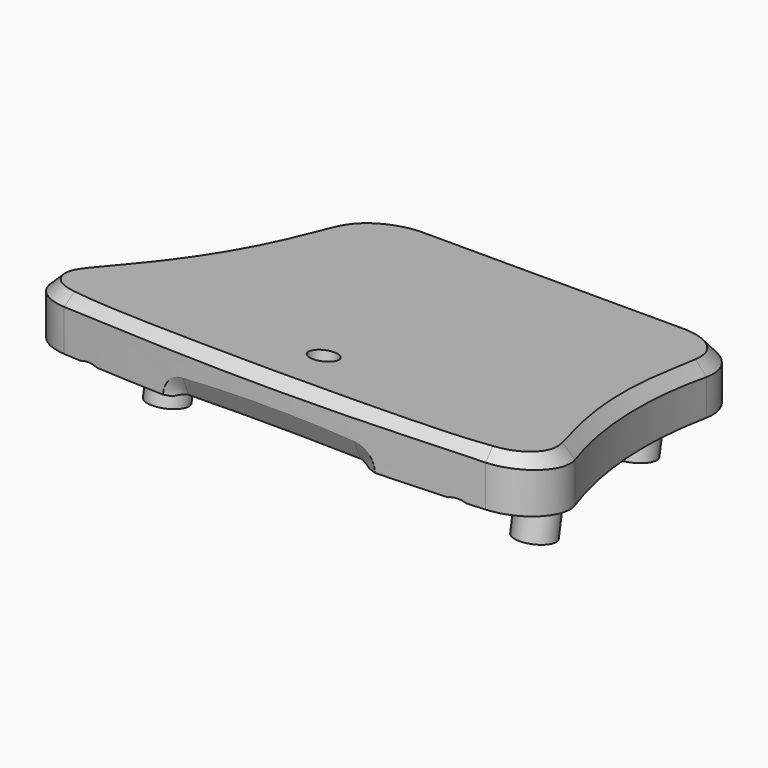
from build123d import *

# Parameters (mm, degrees)
PAD012_DEPTH         = 22
POCKET009_DEPTH      = 33.001
POCKET009_DEPTH_BACK = 33.001
SKETCH067_W          = 2.5
SKETCH067_H          = 10
SKETCH068_W          = 2.7
SKETCH068_H          = 10
PAD009_DEPTH         = 22
POCKET011_DEPTH      = 33.001
POCKET011_DEPTH_BACK = 33.001
CHAMFER_SIZE         = 1.5
POCKET_DEPTH         = 6
POCKET016_DEPTH      = 5
POCKET012_DEPTH      = 17.5
POCKET001_DEPTH      = 4
POCKET002_DEPTH      = 12.5
POCKET010_DEPTH      = 7.0010001
POCKET013_DEPTH      = 12.5
SKETCH072_R          = 1.75
POCKET018_DEPTH      = 2.5
PAD015_DEPTH         = 2
POCKET019_DEPTH      = 5


with BuildPart() as separation_top:
    # Sketch034 → Pad012 (new body)
    with BuildSketch(Plane.XY):
        with BuildLine():
            ThreePointArc((-17, 22), (-22.547830033, 19.763816611), (-24.9941687248, 14.3053954813))
            ThreePointArc((-32.4373853004, -16.4633011422), (-27.1786787498, -1.4507903316), (-24.9941687248, 14.3053954813))
            ThreePointArc((-32.4373853004, -16.4633011422), (-32.2034596214, -21.9873078128), (-27.5510204082, -24.9746444672))
            ThreePointArc((-27.5510204082, -24.9746444672), (0, -26.2424211058), (27.5510204082, -24.9746444672))
            ThreePointArc((27.5510204082, -24.9746444672), (32.2034596214, -21.9873078128), (32.4373853004, -16.4633011422))
            ThreePointArc((24.9941687248, 14.3053954813), (27.1786787499, -1.4507903316), (32.4373853004, -16.4633011422))
            ThreePointArc((24.9941687248, 14.3053954813), (22.547830033, 19.763816611), (17, 22))
            Line((-17, 22), (17, 22))
        make_face()
    extrude(amount=PAD012_DEPTH)

    # Sketch035 → Pocket009 (cut, two sides)
    with BuildSketch(Plane.YZ) as pocket009_sk:
        Polygon((-26.2424211058, 0), (-26.2424211058, 12.927471751), (22, 5.285738189), (22, 0), align=None)
    extrude(amount=-POCKET009_DEPTH, mode=Mode.SUBTRACT)
    extrude(pocket009_sk.sketch, amount=POCKET009_DEPTH_BACK, mode=Mode.SUBTRACT)

    # SubtractivePipe001: sweep along a path in Sketch045
    with BuildLine(Plane(origin=(-5.8334627974, 16.4625576489, 6.4160014438), x_dir=(1, 0, 0), z_dir=(0, -0.1564521345, -0.9876855419))) as subtractivepipe001_path:
        ThreePointArc((-21.6903983536, 40.0135271244), (-24.4272098882, 38.2505630707), (-24.5284614888, 34.9966534616))
        ThreePointArc((-24.5284614888, 34.9966534616), (-18.6113975596, 18.6316827307), (-16.2585987673, 1.3896338266))
        ThreePointArc((-16.2585987673, 1.3896338266), (-14.8660514943, -1.7695873445), (-11.6665372026, -3.0668824584))
        Line((-11.6665372026, -3.0668824584), (23.3334627974, -3.0668824584))
        ThreePointArc((23.3334627974, -3.0668824584), (26.6346081412, -1.6678189582), (27.9251359699, 1.6772486318))
        ThreePointArc((27.9251359699, 1.6772486318), (29.1452471215, 18.7578168303), (33.8652541538, 35.2185584545))
        ThreePointArc((33.8652541538, 35.2185584545), (33.603852801, 38.3551908191), (30.9286492654, 40.0135271244))
        ThreePointArc((30.9286492654, 40.0135271244), (4.6191254559, 41.1791569327), (-21.6903983536, 40.0135271244))
    # Sketch044 → SubtractivePipe001 (sweep, cut)
    with BuildSketch(Plane.YZ):
        with BuildLine():
            Line((17.9324136248, 5.930055174), (18.9176323332, 6.7864617876))
            ThreePointArc((20.3003920919, 6.5674287993), (19.6600805925, 6.9993410259), (18.9176323332, 6.7864617876))
            Line((20.3003920919, 6.5674287993), (20.9727065313, 5.4484643291))
            Line((20.9727065313, 5.4484643291), (17.9324136248, 5.930055174))
        make_face()
    sweep(path=subtractivepipe001_path.line, mode=Mode.SUBTRACT)

    # Sketch067 (on Binder) → Revolution004 (revolve)
    with BuildSketch(Plane(origin=(0, -12.7790121068, 2.2532846212), x_dir=(-1, 0, 0), z_dir=(0, 0.984807753, -0.1736481777))):
        with Locations((-22.75, 6.2273814433)):
            Rectangle(SKETCH067_W, SKETCH067_H)
    revolution004 = revolve(axis=Axis((24, -10.8293977792, 13.3100969127), (0, 0.1736481777, 0.984807753)))

    # Sketch068 (on Binder) → Revolution005 (revolve)
    with BuildSketch(Plane(origin=(0, 7.1028372563, -1.2524218479), x_dir=(-1, 0, 0), z_dir=(0, 0.984807753, -0.1736481777))):
        with Locations((-19.15, 9.7871690855)):
            Rectangle(SKETCH068_W, SKETCH068_H)
    revolution005 = revolve(axis=Axis((20.5, 9.6706022208, 13.3100969127), (0, 0.1736481777, 0.984807753)))

    # Sketch069 (on Binder) → Groove003 (revolve, cut)
    with BuildSketch(Plane(origin=(0, -12.7790121068, 2.2532846212), x_dir=(-1, 0, 0), z_dir=(0, 0.984807753, -0.1736481777))):
        Polygon((-24, 11.2273814433), (-23.5394098609, 11.2273814433), (-22.7174920527, 1.2273814433), (-24, 1.2273814433), align=None)
    groove003 = revolve(axis=Axis((24, -10.8293977792, 13.3100969127), (0, 0.1736481777, 0.984807753)), mode=Mode.SUBTRACT)

    # Sketch070 (on Binder) → Groove004 (revolve, cut)
    with BuildSketch(Plane(origin=(0, 7.1028372563, -1.2524218479), x_dir=(-1, 0, 0), z_dir=(0, 0.984807753, -0.1736481777))):
        Polygon((-19.2174920527, 4.7871690855), (-20.5, 4.7871690855), (-20.5, 14.7871690855), (-20.0394098609, 14.7871690855), align=None)
    groove004 = revolve(axis=Axis((20.5, 9.6706022208, 13.3100969127), (0, 0.1736481777, 0.984807753)), mode=Mode.SUBTRACT)

    # Mirrored005: Revolution004, Revolution005, Groove003, Groove004 across YZ
    add(revolution004.mirror(Plane.YZ))
    add(revolution005.mirror(Plane.YZ))
    add(groove003.mirror(Plane.YZ), mode=Mode.SUBTRACT)
    add(groove004.mirror(Plane.YZ), mode=Mode.SUBTRACT)


with BuildPart() as top_housing:
    # Sketch016 → Pad009 (new body)
    with BuildSketch(Plane.XY):
        with BuildLine():
            ThreePointArc((24.9941687248, 14.3053954813), (22.547830033, 19.763816611), (17, 22))
            Line((-17, 22), (17, 22))
            ThreePointArc((-17, 22), (-22.547830033, 19.763816611), (-24.9941687248, 14.3053954813))
            ThreePointArc((-32.4373853004, -16.4633011422), (-27.1786787498, -1.4507903316), (-24.9941687248, 14.3053954813))
            ThreePointArc((-32.4373853004, -16.4633011422), (-32.2034596214, -21.9873078128), (-27.5510204082, -24.9746444672))
            ThreePointArc((-27.5510204082, -24.9746444672), (0, -26.2424211058), (27.5510204082, -24.9746444672))
            ThreePointArc((27.5510204082, -24.9746444672), (32.2034596214, -21.9873078128), (32.4373853004, -16.4633011422))
            ThreePointArc((24.9941687248, 14.3053954813), (27.1786787498, -1.4507903316), (32.4373853004, -16.4633011422))
        make_face()
    extrude(amount=PAD009_DEPTH)

    # Sketch048 → Pocket011 (cut, two sides)
    with BuildSketch(Plane.YZ) as pocket011_sk:
        Polygon((-26.2424211058, 22), (-26.2424211058, 19.8586460584), (22, 11.3522056027), (22, 22), align=None)
    extrude(amount=-POCKET011_DEPTH, mode=Mode.SUBTRACT)
    extrude(pocket011_sk.sketch, amount=POCKET011_DEPTH_BACK, mode=Mode.SUBTRACT)

    # Chamfer
    chamfer_edges = [top_housing.edges().sort_by_distance(p)[0] for p in [
        (22.569002, 19.743363, 11.750112),
        (22.54783, 19.763817, 0),
    ]]
    chamfer(chamfer_edges, length=CHAMFER_SIZE)

    # Sketch017 → Pocket (cut)
    with BuildSketch(Plane.XY.offset(2.5)):
        with BuildLine():
            Line((-15.5, 20), (15.5, 20))
            ThreePointArc((16, 19.5), (15.8535533906, 19.8535533906), (15.5, 20))
            Line((16, 19.5), (16, -17.3786796564))
            ThreePointArc((15.8535533906, -17.732233047), (15.9619397663, -17.5700213726), (16, -17.3786796564))
            Line((15.8535533906, -17.732233047), (13.732233047, -19.8535533906))
            ThreePointArc((13.3786796564, -20), (13.5700213726, -19.9619397663), (13.732233047, -19.8535533906))
            Line((13.3786796564, -20), (-13.3786796564, -20))
            ThreePointArc((-13.732233047, -19.8535533906), (-13.5700213726, -19.9619397663), (-13.3786796564, -20))
            Line((-15.8535533906, -17.732233047), (-13.732233047, -19.8535533906))
            ThreePointArc((-16, -17.3786796564), (-15.9619397663, -17.5700213726), (-15.8535533906, -17.732233047))
            Line((-16, -17.3786796564), (-16, 19.5))
            ThreePointArc((-15.5, 20), (-15.8535533906, 19.8535533906), (-16, 19.5))
        make_face()
    extrude(amount=POCKET_DEPTH, mode=Mode.SUBTRACT)

    # Sketch061 (on Binder) → Pocket016 (cut)
    with BuildSketch(Plane(origin=(0, 1.2969820702, 7.3555508352), x_dir=(-1, 0, 0), z_dir=(0, -0.1736481777, -0.984807753))):
        with BuildLine():
            Line((17, 15.8179414824), (-17, 15.8179414824))
            ThreePointArc((-17, 15.8179414824), (-17.2121320344, 15.7300735167), (-17.3, 15.5179414824))
            Line((-17.3, 7.2124099699), (-17.3, 15.5179414824))
            ThreePointArc((-19.4759076456, 4.1807050289), (-17.9002792906, 5.3465449606), (-17.3, 7.2124099699))
            ThreePointArc((-19.4759076456, 4.1807050289), (-19.6236228038, 4.0714075353), (-19.6798989873, 3.8964826907))
            Line((-19.6798989873, 3.8964826907), (-19.6798989873, -15.0820585176))
            ThreePointArc((-19.6798989873, -15.0820585176), (-19.5920310217, -15.294190552), (-19.3798989873, -15.3820585176))
            Line((-19.3798989873, -15.3820585176), (19.3798989873, -15.3820585176))
            ThreePointArc((19.3798989873, -15.3820585176), (19.5920310217, -15.294190552), (19.6798989873, -15.0820585176))
            Line((19.6798989873, -15.0820585176), (19.6798989873, 3.8964826907))
            ThreePointArc((19.6798989873, 3.8964826907), (19.6236228038, 4.0714075353), (19.4759076456, 4.1807050289))
            ThreePointArc((17.3, 7.2124099699), (17.9002792906, 5.3465449606), (19.4759076456, 4.1807050289))
            Line((17.3, 7.2124099699), (17.3, 15.5179414824))
            ThreePointArc((17.3, 15.5179414824), (17.2121320344, 15.7300735167), (17, 15.8179414824))
        make_face()
    extrude(amount=-POCKET016_DEPTH, mode=Mode.SUBTRACT)

    # Sketch050 → Pocket012 (cut, symmetric)
    with BuildSketch(Plane.YZ):
        Polygon((-15.1888639059, 6), (17.3047876744, 6), (18.1879985355, 11.0089376995), (-13.3258495609, 16.5656793848), align=None)
    extrude(amount=POCKET012_DEPTH, both=True, mode=Mode.SUBTRACT)

    # Sketch052 (on DatumPlane) → AdditiveLoft section 0
    with BuildSketch(Plane(origin=(5.8333333333, 7.6833825034, 12.8611849279), x_dir=(-1, 0, 0), z_dir=(0, 0.1736481777, 0.984807753))):
        with BuildLine():
            ThreePointArc((5.0833333333, 1.115391851), (5.8333333333, 0.365391851), (6.5833333333, 1.115391851))
            Line((6.5833333333, 1.115391851), (6.5833333333, 4.365391851))
            Line((6.5833333333, 4.365391851), (9.8333333333, 4.365391851))
            ThreePointArc((9.8333333333, 4.365391851), (10.5833333333, 5.115391851), (9.8333333333, 5.865391851))
            Line((9.8333333333, 5.865391851), (6.5833333333, 5.865391851))
            Line((6.5833333333, 5.865391851), (6.5833333333, 9.115391851))
            ThreePointArc((6.5833333333, 9.115391851), (5.8333333333, 9.865391851), (5.0833333333, 9.115391851))
            Line((5.0833333333, 9.115391851), (5.0833333333, 5.865391851))
            Line((5.0833333333, 5.865391851), (1.8333333333, 5.865391851))
            ThreePointArc((1.8333333333, 5.865391851), (1.0833333333, 5.115391851), (1.8333333333, 4.365391851))
            Line((1.8333333333, 4.365391851), (5.0833333333, 4.365391851))
            Line((5.0833333333, 4.365391851), (5.0833333333, 1.115391851))
        make_face()
    # Sketch053 (on DatumPlane) → AdditiveLoft section 1
    with BuildSketch(Plane(origin=(5.8333333333, 7.3360861481, 10.8915694219), x_dir=(-1, 0, 0), z_dir=(0, 0.1736481777, 0.984807753))):
        with BuildLine():
            ThreePointArc((1.8333333333, 5.515391851), (1.4333333333, 5.115391851), (1.8333333333, 4.715391851))
            Line((1.8333333333, 4.715391851), (5.4333333333, 4.715391851))
            Line((5.4333333333, 4.715391851), (5.4333333333, 1.115391851))
            ThreePointArc((5.4333333333, 1.115391851), (5.8333333333, 0.715391851), (6.2333333333, 1.115391851))
            Line((6.2333333333, 1.115391851), (6.2333333333, 4.715391851))
            Line((6.2333333333, 4.715391851), (9.8333333333, 4.715391851))
            ThreePointArc((9.8333333333, 4.715391851), (10.2333333333, 5.115391851), (9.8333333333, 5.515391851))
            Line((9.8333333333, 5.515391851), (6.2333333333, 5.515391851))
            Line((6.2333333333, 5.515391851), (6.2333333333, 9.115391851))
            ThreePointArc((6.2333333333, 9.115391851), (5.8333333333, 9.515391851), (5.4333333333, 9.115391851))
            Line((5.4333333333, 9.115391851), (5.4333333333, 5.515391851))
            Line((5.4333333333, 5.515391851), (1.8333333333, 5.515391851))
        make_face()
    loft()

    # Sketch018 → Pocket001 (cut)
    with BuildSketch(Plane.XZ.offset(20.5)):
        with BuildLine():
            Line((-23.75, 6.3915608176), (-21, 7.9792740578))
            ThreePointArc((-21, 7.9792740578), (-20.8169872981, 8.1622867597), (-20.75, 8.4122867597))
            Line((-20.75, 8.4122867597), (-20.75, 11.5877132403))
            ThreePointArc((-20.75, 11.5877132403), (-20.8169872981, 11.8377132403), (-21, 12.0207259422))
            Line((-23.75, 13.6084391824), (-21, 12.0207259422))
            ThreePointArc((-23.75, 13.6084391824), (-24, 13.6754264805), (-24.25, 13.6084391824))
            Line((-27, 12.0207259422), (-24.25, 13.6084391824))
            ThreePointArc((-27, 12.0207259422), (-27.1830127019, 11.8377132403), (-27.25, 11.5877132403))
            Line((-27.25, 11.5877132403), (-27.25, 8.4122867597))
            ThreePointArc((-27.25, 8.4122867597), (-27.1830127019, 8.1622867597), (-27, 7.9792740578))
            Line((-27, 7.9792740578), (-24.25, 6.3915608176))
            ThreePointArc((-24.25, 6.3915608176), (-24, 6.3245735195), (-23.75, 6.3915608176))
        make_face()
        with BuildLine():
            Line((20.75, 11.5877132403), (20.75, 8.4122867597))
            ThreePointArc((20.75, 8.4122867597), (20.8169872981, 8.1622867597), (21, 7.9792740578))
            Line((21, 7.9792740578), (23.75, 6.3915608176))
            ThreePointArc((23.75, 6.3915608176), (24, 6.3245735195), (24.25, 6.3915608176))
            Line((24.25, 6.3915608176), (27, 7.9792740578))
            ThreePointArc((27, 7.9792740578), (27.1830127019, 8.1622867597), (27.25, 8.4122867597))
            Line((27.25, 8.4122867597), (27.25, 11.5877132403))
            ThreePointArc((27.25, 11.5877132403), (27.1830127019, 11.8377132403), (27, 12.0207259422))
            Line((24.25, 13.6084391824), (27, 12.0207259422))
            ThreePointArc((24.25, 13.6084391824), (24, 13.6754264805), (23.75, 13.6084391824))
            Line((21, 12.0207259422), (23.75, 13.6084391824))
            ThreePointArc((21, 12.0207259422), (20.8169872981, 11.8377132403), (20.75, 11.5877132403))
        make_face()
    extrude(amount=-POCKET001_DEPTH, mode=Mode.SUBTRACT)

    # Sketch047 → Groove (revolve, cut)
    with BuildSketch(Plane.XY.offset(10)):
        Polygon((24, -15.7), (24, -25.7), (27, -25.7), (27, -24.7), (25.7, -24.7), (25.7, -15.7), align=None)
    groove = revolve(axis=Axis((24, -15.7, 10), (0, 1, 0)), mode=Mode.SUBTRACT)

    # Mirrored: Groove across YZ
    add(groove.mirror(Plane.YZ), mode=Mode.SUBTRACT)

    # Sketch019 → Pocket002 (cut)
    with BuildSketch(Plane.XY.offset(3)):
        with BuildLine():
            ThreePointArc((-17.4338, -21.75), (-17.6105766953, -21.8232233047), (-17.6838, -22))
            Line((-17.6838, -23.78943), (-17.6838, -22))
            ThreePointArc((-17.6838, -23.78943), (-17.6105766953, -23.9662066953), (-17.4338, -24.03943))
            Line((20.5138, -24.03943), (-17.4338, -24.03943))
            ThreePointArc((20.5138, -24.03943), (20.6905766953, -23.9662066953), (20.7638, -23.78943))
            Line((20.7638, -22), (20.7638, -23.78943))
            ThreePointArc((20.7638, -22), (20.6905766953, -21.8232233047), (20.5138, -21.75))
            Line((16.7638, -21.75), (20.5138, -21.75))
            Line((16.7638, -20), (16.7638, -21.75))
            Line((-15.4338, -20), (16.7638, -20))
            Line((-15.4338, -21.75), (-15.4338, -20))
            Line((-17.4338, -21.75), (-15.4338, -21.75))
        make_face()
    extrude(amount=POCKET002_DEPTH, mode=Mode.SUBTRACT)

    # SubtractivePipe: sweep along a path in Sketch037
    with BuildLine(Plane.XY) as subtractivepipe_path:
        ThreePointArc((-8.1, -7), (-13.98854382, -14.05572809), (-16.1, -23))
    # Sketch036 → SubtractivePipe (sweep, cut)
    with BuildSketch(Plane.XZ.offset(23)):
        with BuildLine():
            ThreePointArc((-15.35, 13.5), (-16.1, 14.25), (-16.85, 13.5))
            Line((-16.85, 13.5), (-16.85, 5))
            ThreePointArc((-16.85, 5), (-16.1, 4.25), (-15.35, 5))
            Line((-15.35, 5), (-15.35, 13.5))
        make_face()
    sweep(path=subtractivepipe_path.line, mode=Mode.SUBTRACT)

    # Sketch038 → SubtractiveLoft section 0
    with BuildSketch(Plane.XZ.offset(23.5)):
        with BuildLine():
            ThreePointArc((-11.1956009834, 13.292028142), (-11.5491543739, 13.1455815326), (-11.6956009834, 12.792028142))
            Line((-11.6956009834, 7.208028142), (-11.6956009834, 12.792028142))
            ThreePointArc((-11.6956009834, 7.208028142), (-11.5491543739, 6.8544747514), (-11.1956009834, 6.708028142))
            Line((11.1883990166, 6.708028142), (-11.1956009834, 6.708028142))
            ThreePointArc((11.1883990166, 6.708028142), (11.5419524072, 6.8544747514), (11.6883990166, 7.208028142))
            Line((11.6883990166, 12.792028142), (11.6883990166, 7.208028142))
            ThreePointArc((11.6883990166, 12.792028142), (11.5419524072, 13.1455815326), (11.1883990166, 13.292028142))
            Line((-11.1956009834, 13.292028142), (11.1883990166, 13.292028142))
        make_face()
    # Sketch078 → SubtractiveLoft section 1
    with BuildSketch(Plane.XZ.offset(25)):
        with BuildLine():
            ThreePointArc((-11.1956009834, 13.292028142), (-11.5491543739, 13.1455815326), (-11.6956009834, 12.792028142))
            Line((-11.6956009834, 7.208028142), (-11.6956009834, 12.792028142))
            ThreePointArc((-11.6956009834, 7.208028142), (-11.5491543739, 6.8544747514), (-11.1956009834, 6.708028142))
            Line((11.1883990166, 6.708028142), (-11.1956009834, 6.708028142))
            ThreePointArc((11.1883990166, 6.708028142), (11.5419524072, 6.8544747514), (11.6883990166, 7.208028142))
            Line((11.6883990166, 12.792028142), (11.6883990166, 7.208028142))
            ThreePointArc((11.6883990166, 12.792028142), (11.5419524072, 13.1455815326), (11.1883990166, 13.292028142))
            Line((-11.1956009834, 13.292028142), (11.1883990166, 13.292028142))
        make_face()
    # Sketch039 → SubtractiveLoft section 2
    with BuildSketch(Plane.XZ.offset(26.5)):
        with BuildLine():
            ThreePointArc((-11.1956009834, 16.792028142), (-14.0240281081, 15.6204552668), (-15.1956009834, 12.792028142))
            Line((-15.1956009834, 7.208028142), (-15.1956009834, 12.792028142))
            ThreePointArc((-15.1956009834, 7.208028142), (-14.0240281081, 4.3796010173), (-11.1956009834, 3.208028142))
            Line((11.1883990166, 3.208028142), (-11.1956009834, 3.208028142))
            ThreePointArc((11.1883990166, 3.208028142), (14.0168261414, 4.3796010173), (15.1883990166, 7.208028142))
            Line((15.1883990166, 12.792028142), (15.1883990166, 7.208028142))
            ThreePointArc((15.1883990166, 12.792028142), (14.0168261414, 15.6204552668), (11.1883990166, 16.792028142))
            Line((-11.1956009834, 16.792028142), (11.1883990166, 16.792028142))
        make_face()
    loft(ruled=True, mode=Mode.SUBTRACT)

    # Sketch046 → Pocket010 (cut, through all)
    with BuildSketch(Plane.XZ.offset(-15)):
        with BuildLine():
            Line((-4.2, 5.98), (-4.2, 5.2613640687))
            ThreePointArc((-4.2, 5.2613640687), (-4.1010433923, 4.7638756067), (-3.8192388156, 4.3421252532))
            Line((-3.8192388156, 4.3421252532), (-3.2878679656, 3.8107544033))
            ThreePointArc((-3.2878679656, 3.8107544033), (-2.8661176122, 3.5289498266), (-2.3686291501, 3.4299932188))
            Line((-2.3686291501, 3.4299932188), (2.8686291501, 3.4299932188))
            ThreePointArc((2.8686291501, 3.4299932188), (3.3661176122, 3.5289498266), (3.7878679656, 3.8107544033))
            Line((3.7878679656, 3.8107544033), (4.3192388156, 4.3421252532))
            ThreePointArc((4.3192388156, 4.3421252532), (4.6010433923, 4.7638756066), (4.7, 5.2613640687))
            Line((4.7, 5.2613640687), (4.7, 5.98))
            ThreePointArc((4.7, 5.98), (4.3192388155, 6.8992388155), (3.4, 7.28))
            Line((3.4, 7.28), (-2.9, 7.28))
            ThreePointArc((-2.9, 7.28), (-3.8192388155, 6.8992388155), (-4.2, 5.98))
        make_face()
    extrude(amount=-POCKET010_DEPTH, mode=Mode.SUBTRACT)

    # Sketch051 → Pocket013 (cut)
    with BuildSketch(Plane.XY.offset(3)):
        with BuildLine():
            Line((-21, -19), (-19, -19))
            ThreePointArc((-19, -19), (-17.9393398282, -18.5606601718), (-17.5, -17.5))
            Line((-17.5, -17.5), (-17.5, -12))
            Line((-17.5, -12), (17.5, -12))
            Line((17.5, -12), (17.5, -17.5))
            ThreePointArc((17.5, -17.5), (17.9393398282, -18.5606601718), (19, -19))
            Line((19, -19), (21, -19))
            Line((21, -19), (21, -20.5))
            Line((21, -20.5), (-21, -20.5))
            Line((-21, -20.5), (-21, -19))
        make_face()
    extrude(amount=POCKET013_DEPTH, mode=Mode.SUBTRACT)

    # Sketch072 (on DatumPlane) → Pocket018 (cut, symmetric)
    with BuildSketch(Plane(origin=(5.8333333333, 7.6833825034, 12.8611849279), x_dir=(-1, 0, 0), z_dir=(0, 0.1736481777, 0.984807753))):
        with Locations((5.8333333333, 25.2354619681)):
            Circle(SKETCH072_R)
    extrude(amount=POCKET018_DEPTH, both=True, mode=Mode.SUBTRACT)

    # Sketch073 (on DatumPlane) → Pad015 (join)
    with BuildSketch(Plane(origin=(5.8333333333, 7.5097343257, 11.8763771749), x_dir=(-1, 0, 0), z_dir=(0, 0.1736481777, 0.984807753))):
        with BuildLine():
            Line((3.494583796, 27.0346289432), (4.144583796, 28.1604619681))
            Line((4.144583796, 28.1604619681), (7.5220828707, 28.1604619681))
            Line((7.5220828707, 28.1604619681), (8.1720828707, 27.0346289432))
            ThreePointArc((8.1720828707, 27.0346289432), (8.8550955726, 26.8516162413), (9.0381082745, 27.5346289432))
            Line((9.0381082745, 27.5346289432), (8.3881082745, 28.6604619681))
            ThreePointArc((8.3881082745, 28.6604619681), (8.0220828707, 29.0264873719), (7.5220828707, 29.1604619681))
            Line((7.5220828707, 29.1604619681), (4.144583796, 29.1604619681))
            ThreePointArc((4.144583796, 29.1604619681), (3.644583796, 29.0264873719), (3.2785583922, 28.6604619681))
            Line((3.2785583922, 28.6604619681), (2.6285583922, 27.5346289432))
            ThreePointArc((2.6285583922, 27.5346289432), (2.8115710941, 26.8516162413), (3.494583796, 27.0346289432))
        make_face()
        with BuildLine():
            Line((3.494583796, 23.436294993), (4.144583796, 22.3104619681))
            Line((4.144583796, 22.3104619681), (7.5220828707, 22.3104619681))
            Line((7.5220828707, 22.3104619681), (8.1720828707, 23.436294993))
            ThreePointArc((9.0381082745, 22.936294993), (8.8550955726, 23.6193076949), (8.1720828707, 23.436294993))
            Line((9.0381082745, 22.936294993), (8.3881082745, 21.8104619681))
            ThreePointArc((7.5220828707, 21.3104619681), (8.0220828707, 21.4444365643), (8.3881082745, 21.8104619681))
            Line((7.5220828707, 21.3104619681), (4.144583796, 21.3104619681))
            ThreePointArc((3.2785583922, 21.8104619681), (3.644583796, 21.4444365643), (4.144583796, 21.3104619681))
            Line((3.2785583922, 21.8104619681), (2.6285583922, 22.936294993))
            ThreePointArc((3.494583796, 23.436294993), (2.8115710941, 23.6193076949), (2.6285583922, 22.936294993))
        make_face()
    extrude(amount=-PAD015_DEPTH)

    # Sketch074 (on DatumPlane) → Pocket019 (cut)
    with BuildSketch(Plane(origin=(5.8333333333, 7.5097343257, 11.8763771749), x_dir=(-1, 0, 0), z_dir=(0, 0.1736481777, 0.984807753))):
        with BuildLine():
            Line((7.5220828707, 28.1604619681), (4.144583796, 28.1604619681))
            Line((4.144583796, 28.1604619681), (3.0331845278, 26.2354619681))
            Line((3.0331845278, 26.2354619681), (-7.5441657414, 26.2354619681))
            ThreePointArc((-7.5441657414, 26.2354619681), (-8.5441657414, 25.2354619681), (-7.5441657414, 24.2354619681))
            Line((-7.5441657414, 24.2354619681), (3.0331845278, 24.2354619681))
            Line((3.0331845278, 24.2354619681), (4.144583796, 22.3104619681))
            Line((4.144583796, 22.3104619681), (7.5220828707, 22.3104619681))
            Line((7.5220828707, 22.3104619681), (9.2108324081, 25.2354619681))
            Line((9.2108324081, 25.2354619681), (7.5220828707, 28.1604619681))
        make_face()
    extrude(amount=-POCKET019_DEPTH, mode=Mode.SUBTRACT)

    # Common001: intersect Separation top
    add(separation_top.part, mode=Mode.INTERSECT)


solid = top_housing.part
